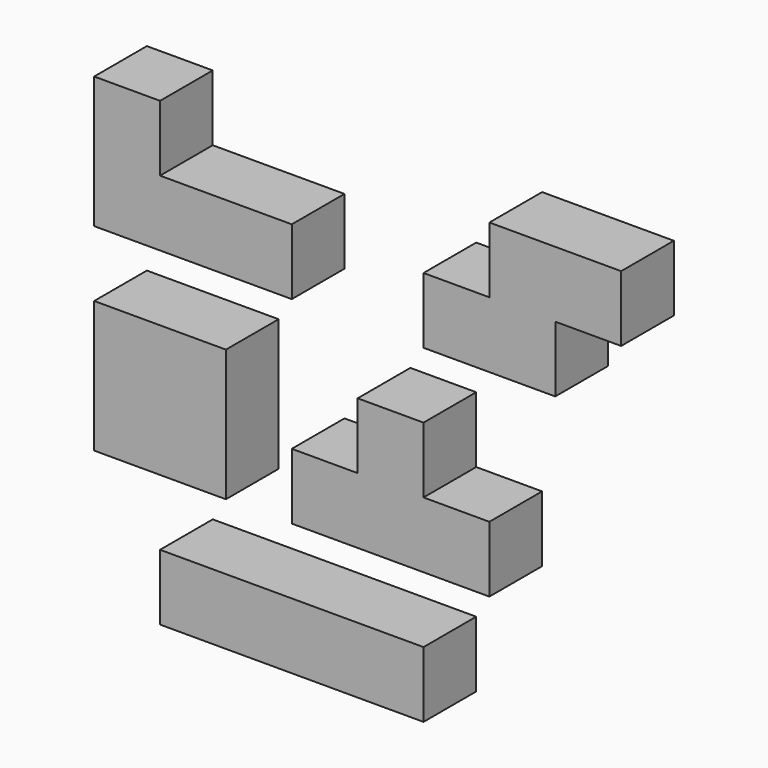
from build123d import *

# Parameters (mm, degrees)
BOX_W        = 40
BOX_H        = 10
BOX_DEPTH    = 10
BOX002_W     = 10
BOX002_H     = 10
BOX002_DEPTH = 10
BOX001_W     = 30
BOX001_H     = 10
BOX001_DEPTH = 10
BOX004_W     = 20
BOX004_H     = 10
BOX004_DEPTH = 10
BOX003_W     = 20
BOX003_H     = 10
BOX003_DEPTH = 10
BOX006_W     = 10
BOX006_H     = 10
BOX006_DEPTH = 10
BOX005_W     = 30
BOX005_H     = 10
BOX005_DEPTH = 10
BOX008_W     = 20
BOX008_H     = 10
BOX008_DEPTH = 10
BOX007_W     = 20
BOX007_H     = 10
BOX007_DEPTH = 10


with BuildPart() as box:
    # Box → Box (new body)
    with BuildSketch(Plane.XY):
        with Locations((20, 5)):
            Rectangle(BOX_W, BOX_H)
    extrude(amount=BOX_DEPTH)


with BuildPart() as cub001:
    # Box002 → Box002 (new body)
    with BuildSketch(Plane(origin=(30, 0, 30), x_dir=(1, 0, 0), z_dir=(0, 0, 1))):
        with Locations((5, 5)):
            Rectangle(BOX002_W, BOX002_H)
    extrude(amount=BOX002_DEPTH)


with BuildPart() as fusion001:
    # Box001 → Box001 (new body)
    with BuildSketch(Plane(origin=(20, 0, 20), x_dir=(1, 0, 0), z_dir=(0, 0, 1))):
        with Locations((15, 5)):
            Rectangle(BOX001_W, BOX001_H)
    extrude(amount=BOX001_DEPTH)

    # Fusion: union Cub001
    add(cub001.part)


with BuildPart() as cub003:
    # Box004 → Box004 (new body)
    with BuildSketch(Plane(origin=(-10, 0, 30), x_dir=(1, 0, 0), z_dir=(0, 0, 1))):
        with Locations((10, 5)):
            Rectangle(BOX004_W, BOX004_H)
    extrude(amount=BOX004_DEPTH)


with BuildPart() as fusion003:
    # Box003 → Box003 (new body)
    with BuildSketch(Plane(origin=(-10, 0, 20), x_dir=(1, 0, 0), z_dir=(0, 0, 1))):
        with Locations((10, 5)):
            Rectangle(BOX003_W, BOX003_H)
    extrude(amount=BOX003_DEPTH)

    # Fusion002: union Cub003
    add(cub003.part)


with BuildPart() as cub005:
    # Box006 → Box006 (new body)
    with BuildSketch(Plane(origin=(-10, 0, 60), x_dir=(1, 0, 0), z_dir=(0, 0, 1))):
        with Locations((5, 5)):
            Rectangle(BOX006_W, BOX006_H)
    extrude(amount=BOX006_DEPTH)


with BuildPart() as fusion005:
    # Box005 → Box005 (new body)
    with BuildSketch(Plane(origin=(-10, 0, 50), x_dir=(1, 0, 0), z_dir=(0, 0, 1))):
        with Locations((15, 5)):
            Rectangle(BOX005_W, BOX005_H)
    extrude(amount=BOX005_DEPTH)

    # Fusion004: union Cub005
    add(cub005.part)


with BuildPart() as cub007:
    # Box008 → Box008 (new body)
    with BuildSketch(Plane(origin=(50, 0, 60), x_dir=(1, 0, 0), z_dir=(0, 0, 1))):
        with Locations((10, 5)):
            Rectangle(BOX008_W, BOX008_H)
    extrude(amount=BOX008_DEPTH)


with BuildPart() as fusion007:
    # Box007 → Box007 (new body)
    with BuildSketch(Plane(origin=(40, 0, 50), x_dir=(1, 0, 0), z_dir=(0, 0, 1))):
        with Locations((10, 5)):
            Rectangle(BOX007_W, BOX007_H)
    extrude(amount=BOX007_DEPTH)

    # Fusion006: union Cub007
    add(cub007.part)


solid = Compound([box.part, fusion001.part, fusion003.part, fusion005.part, fusion007.part])
